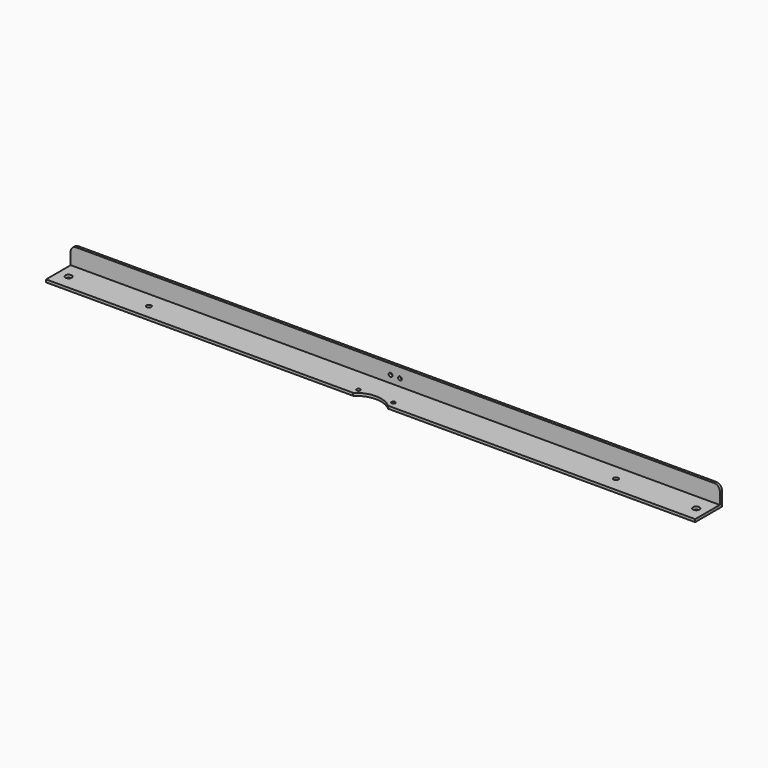
from build123d import *

# Parameters (mm, degrees)
F1_DEPTH = 2425
F2_R     = 12
F2_R_2   = 7
F2_R_3   = 9
F3_DEPTH = 10
F4_R     = 7
F5_DEPTH = 10
F6_R     = 20


with BuildPart() as f1:
    # F0 (on Right) → F1 (new body)
    with BuildSketch(Plane.YZ):
        Polygon((-125, 0), (0, 0), (0, 75), (-10, 75), (-10, 10), (-125, 10), align=None)
    extrude(amount=F1_DEPTH)

    # F2 (on face) → F3 (cut)
    with BuildSketch(Plane.XY.offset(10)):
        with Locations((40, -70)):
            Circle(F2_R)
        with Locations((2385, -70)):
            Circle(F2_R)
        with BuildLine():
            Line((1147.5, -125), (1277.5, -125))
            ThreePointArc((1277.5, -125), (1212.5, -100), (1147.5, -125))
        make_face()
        with Locations((1147.5, -100)):
            Circle(F2_R_2)
        with Locations((1277.5, -100)):
            Circle(F2_R_2)
        with Locations((2085, -70)):
            Circle(F2_R_3)
        with Locations((340, -70)):
            Circle(F2_R_3)
    extrude(amount=-F3_DEPTH, mode=Mode.SUBTRACT)

    # F4 (on face) → F5 (cut)
    with BuildSketch(Plane.XZ.offset(10)):
        with Locations((1195, 37.5)):
            Circle(F4_R)
        with Locations((1230, 37.5)):
            Circle(F4_R)
    extrude(amount=-F5_DEPTH, mode=Mode.SUBTRACT)

    # F6
    f6_edges = [f1.edges().sort_by_distance(p)[0] for p in [
        (2425, -5, 75),
        (0, -5, 75),
    ]]
    fillet(f6_edges, radius=F6_R)


solid = f1.part
